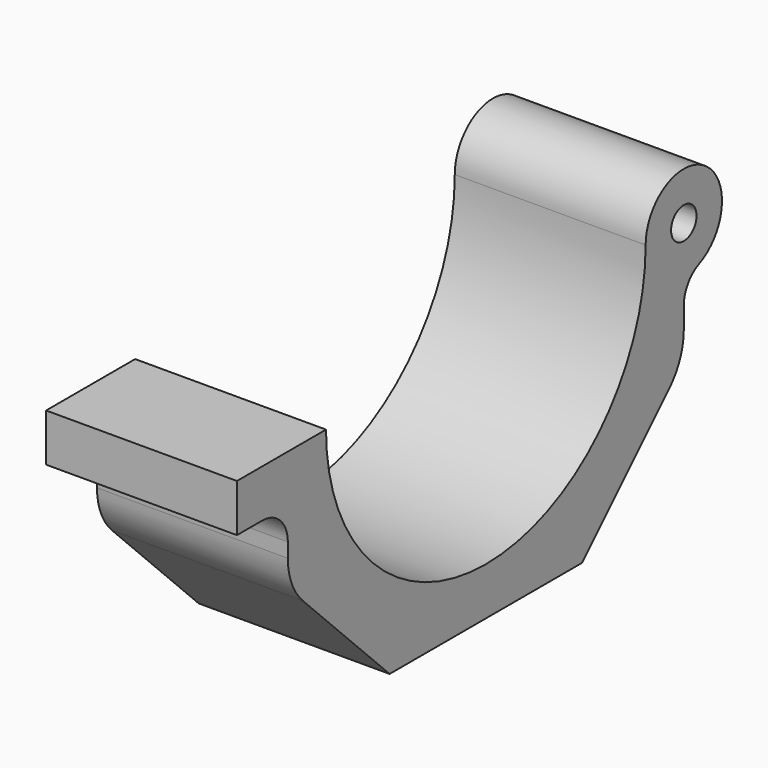
from build123d import *

# Parameters (mm, degrees)
F0_R     = 1.5875
F1_DEPTH = 9.525
F2_SIZE  = 12.7
F3_R     = 3.175
F4_R     = 6.35


with BuildPart() as f1:
    # F0 (on Right) → F1 (new body, symmetric)
    with BuildSketch(Plane.YZ):
        with BuildLine():
            ThreePointArc((19.939, 0), (0, -19.939), (-19.939, 0))
            Line((-19.939, 0), (-24.7015, 0))
            Line((-24.7015, 0), (-31.0515, 0))
            Line((-31.0515, 0), (-31.0515, -4.7625))
            Line((-31.0515, -4.7625), (-24.7015, -4.7625))
            Line((-24.7015, -4.7625), (-24.7015, -24.7015))
            Line((-24.7015, -24.7015), (24.7015, -24.7015))
            Line((24.7015, -24.7015), (24.7015, -4.7625))
            ThreePointArc((24.7015, -4.7625), (28.0690960454, 3.3675960454), (19.939, 0))
        make_face()
        with Locations((24.7015, 0)):
            Circle(F0_R, mode=Mode.SUBTRACT)
    extrude(amount=F1_DEPTH, both=True)

    # F2
    f2_edges = [f1.edges().sort_by_distance(p)[0] for p in [
        (0, -24.7015, -24.7015),
        (0, 24.7015, -24.7015),
    ]]
    chamfer(f2_edges, length=F2_SIZE)

    # F3
    f3_edges = [f1.edges().sort_by_distance(p)[0] for p in [
        (0, 24.7015, -4.7625),
        (0, -24.7015, -4.7625),
    ]]
    fillet(f3_edges, radius=F3_R)

    # F4
    f4_edges = [f1.edges().sort_by_distance(p)[0] for p in [
        (0, 24.7015, -12.0015),
        (0, -24.7015, -12.0015),
    ]]
    fillet(f4_edges, radius=F4_R)


solid = f1.part
